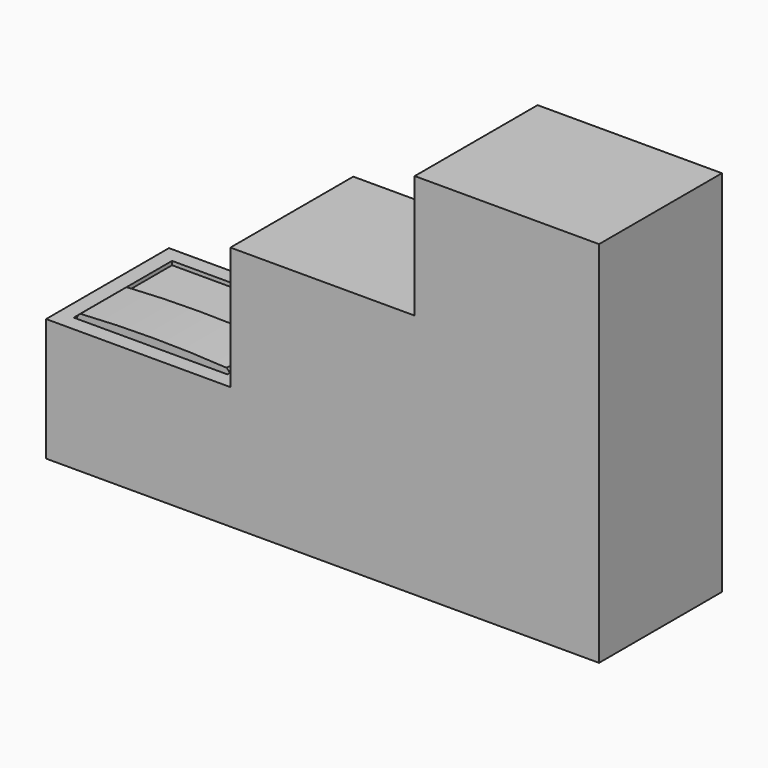
from build123d import *

# Parameters (mm, degrees)
F0_W     = 304.8
F0_H     = 203.2
F1_DEPTH = 254
F2_W     = 254
F2_H     = 203.2
F3_DEPTH = 6.35
F7_DEPTH = 95.491579


with BuildPart() as f1:
    # F0 (on Front) → F1 (new body)
    with BuildSketch(Plane.XZ):
        with Locations((457.2, 304.8)):
            Rectangle(F0_W, F0_H)
        Polygon((609.6, 203.2), (914.4, 203.2), (914.4, 609.6), (609.6, 609.6), (609.6, 406.4), align=None)
        Polygon((0, 203.2), (0, 0), (914.4, 0), (914.4, 203.2), (609.6, 203.2), (304.8, 203.2), align=None)
    extrude(amount=F1_DEPTH)

    # F2 (on face) → F3 (cut)
    with BuildSketch(Plane.XY.offset(203.2)):
        with Locations((152.4, -127)):
            Rectangle(F2_W, F2_H)
    extrude(amount=-F3_DEPTH, mode=Mode.SUBTRACT)

    # F6 (on offset) → F7 (join)
    with BuildSketch(Plane.XZ.offset(127)):
        with BuildLine():
            ThreePointArc((273.291586, 208.28), (152.400003, 212.119769), (31.50842, 208.28))
            ThreePointArc((31.50842, 208.28), (27.022893, 203.329925), (25.4, 196.85))
            Line((25.4, 196.85), (279.4, 196.85))
            ThreePointArc((279.4, 196.85), (277.777109, 203.329923), (273.291586, 208.28))
        make_face()
    extrude(amount=F7_DEPTH)


solid = f1.part
